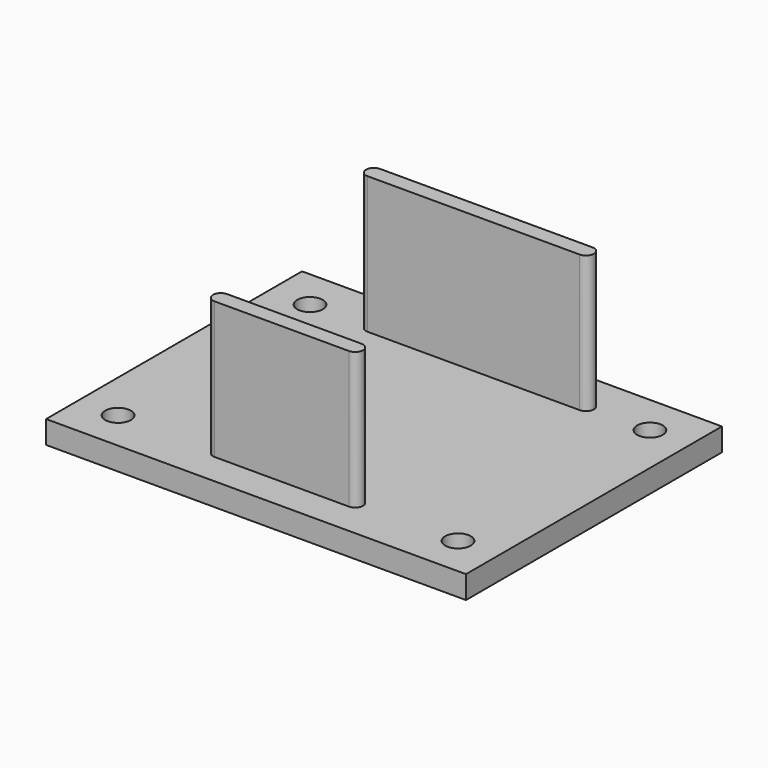
from build123d import *

# Parameters (mm, degrees)
F0_W     = 26.67
F0_H     = 20.32
F1_DEPTH = 1.45
F3_D     = 1.6256
F5_DEPTH = 8.7
F6_DEPTH = 2.1


with BuildPart() as f1:
    # F0 (on Top) → F1 (new body)
    with BuildSketch(Plane.XY):
        with Locations((13.335, 10.16)):
            Rectangle(F0_W, F0_H)
    extrude(amount=F1_DEPTH)

    # F3 (through all)
    with Locations(Plane.XY.offset(1.45)):
        with Locations((2.54, 17.78), (2.54, 2.54), (24.13, 2.54), (24.13, 17.78)):
            Hole(F3_D / 2)

    # F4 (on face) → F5 (join)
    with BuildSketch(Plane.XY.offset(1.45)):
        with BuildLine():
            Line((20.07, 18.28), (6.6, 18.28))
            ThreePointArc((6.6, 18.28), (6.1, 17.78), (6.6, 17.28))
            Line((6.6, 17.28), (20.07, 17.28))
            ThreePointArc((20.07, 17.28), (20.57, 17.78), (20.07, 18.28))
        make_face()
        with BuildLine():
            Line((17.6, 3.04), (9.07, 3.04))
            ThreePointArc((9.07, 3.04), (8.57, 2.54), (9.07, 2.04))
            Line((9.07, 2.04), (17.6, 2.04))
            ThreePointArc((17.6, 2.04), (18.1, 2.54), (17.6, 3.04))
        make_face()
    extrude(amount=F5_DEPTH)

    # F4 (on face) → F6 (join)
    with BuildSketch(Plane.XY.offset(1.45)):
        with BuildLine():
            Line((20.07, 18.28), (6.6, 18.28))
            ThreePointArc((6.6, 18.28), (6.1, 17.78), (6.6, 17.28))
            Line((6.6, 17.28), (20.07, 17.28))
            ThreePointArc((20.07, 17.28), (20.57, 17.78), (20.07, 18.28))
        make_face()
        with BuildLine():
            Line((17.6, 3.04), (9.07, 3.04))
            ThreePointArc((9.07, 3.04), (8.57, 2.54), (9.07, 2.04))
            Line((9.07, 2.04), (17.6, 2.04))
            ThreePointArc((17.6, 2.04), (18.1, 2.54), (17.6, 3.04))
        make_face()
    extrude(amount=-F6_DEPTH)


solid = f1.part
